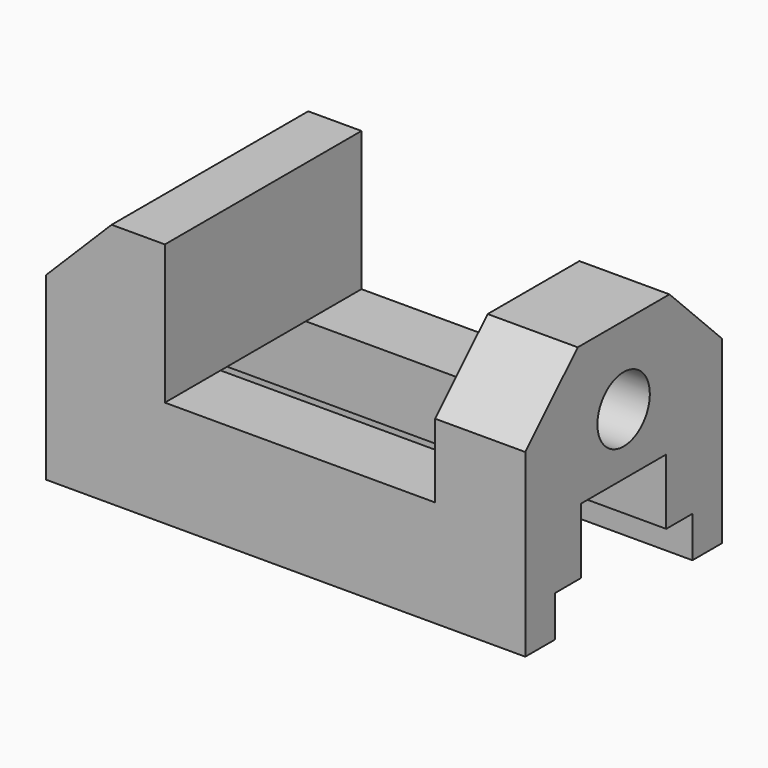
from build123d import *

# Parameters (mm, degrees)
F0_W      = 117
F0_H      = 60
F1_DEPTH  = 60
F2_W      = 42
F2_H      = 10
F3_DEPTH  = 117
F4_W      = 26
F4_H      = 16
F5_DEPTH  = 117
F7_DEPTH  = 22
F9_DEPTH  = 22
F11_DEPTH = 22
F13_DEPTH = 60
F15_DEPTH = 60


with BuildPart() as f1:
    # F0 (on Front) → F1 (new body)
    with BuildSketch(Plane.XZ):
        with Locations((-58.5, 30)):
            Rectangle(F0_W, F0_H)
    extrude(amount=F1_DEPTH)

    # F2 (on face) → F3 (cut)
    with BuildSketch(Plane.YZ):
        with Locations((-30, 5)):
            Rectangle(F2_W, F2_H)
    extrude(amount=-F3_DEPTH, mode=Mode.SUBTRACT)

    # F4 (on face) → F5 (cut)
    with BuildSketch(Plane.YZ):
        with Locations((-30, 18)):
            Rectangle(F4_W, F4_H)
    extrude(amount=-F5_DEPTH, mode=Mode.SUBTRACT)

    # F6 (on face) → F7 (cut)
    with BuildSketch(Plane.YZ):
        with BuildLine():
            ThreePointArc((-38, 41), (-30, 33), (-22, 41))
            ThreePointArc((-22, 41), (-30, 49), (-38, 41))
        make_face()
    extrude(amount=-F7_DEPTH, mode=Mode.SUBTRACT)

    # F8 (on face) → F9 (cut)
    with BuildSketch(Plane.YZ):
        Polygon((-44, 60), (-60, 60), (-60, 44), align=None)
    extrude(amount=-F9_DEPTH, mode=Mode.SUBTRACT)

    # F10 (on face) → F11 (cut)
    with BuildSketch(Plane.YZ):
        Polygon((0, 44), (0, 60), (-16, 60), align=None)
    extrude(amount=-F11_DEPTH, mode=Mode.SUBTRACT)

    # F12 (on face) → F13 (cut)
    with BuildSketch(Plane.XZ.offset(60)):
        Polygon((-22, 60), (-88, 60), (-88, 26), (-22, 26), (-22, 44), align=None)
    extrude(amount=-F13_DEPTH, mode=Mode.SUBTRACT)

    # F14 (on face) → F15 (cut)
    with BuildSketch(Plane.XZ.offset(60)):
        Polygon((-101, 60), (-117, 60), (-117, 44), align=None)
    extrude(amount=-F15_DEPTH, mode=Mode.SUBTRACT)


solid = f1.part
